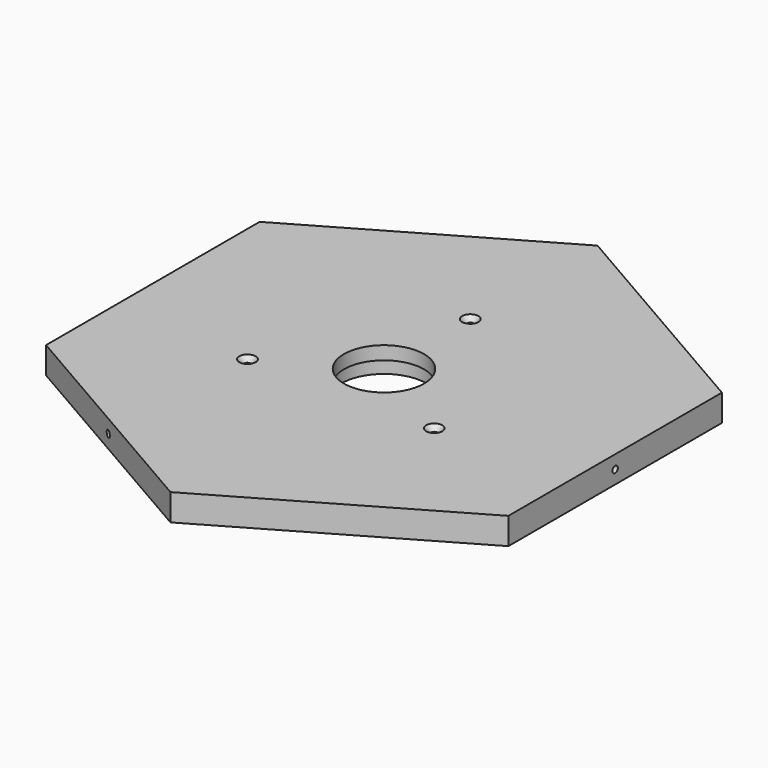
from build123d import *

# Parameters (mm, degrees)
PAD041_DEPTH        = 10
SKETCH094_R         = 15.975
POCKET017_DEPTH     = 5
SKETCH093_R         = 15
POCKET018_DEPTH     = 5
HOLE016_D           = 2.5
HOLE016_DEPTH       = 25
HOLE016_CSINK_D     = 6.1
HOLE016_CSINK_ANGLE = 90
SKETCH096_R         = 1.25
HOLE017_DEPTH       = 14.248924
HOLE017_TIPS_R      = 1.25
SKETCH097_R         = 1.25
HOLE018_DEPTH       = 14.248924
HOLE018_TIPS_R      = 1.25
SKETCH_R            = 1.25
HOLE_DEPTH          = 14.248924
HOLE_TIPS_R         = 1.25


with BuildPart() as part:
    # Sketch092 → Pad041 (new body)
    with BuildSketch(Plane.XY):
        Polygon((86.60254, 50), (0, 100), (-86.60254, 50), (-86.60254, -50), (0, -100), (86.60254, -50), align=None)
    extrude(amount=PAD041_DEPTH)

    # Sketch094 → Pocket017 (cut)
    with BuildSketch(Plane(origin=(0, 0, 0), x_dir=(1, 0, 0), z_dir=(0, 0, -1))):
        Circle(SKETCH094_R)
    extrude(amount=-POCKET017_DEPTH, mode=Mode.SUBTRACT)

    # Sketch093 → Pocket018 (cut)
    with BuildSketch(Plane.XY.offset(10)):
        Circle(SKETCH093_R)
    extrude(amount=-POCKET018_DEPTH, mode=Mode.SUBTRACT)

    # Hole016
    with Locations(Plane.XY.offset(10)):
        with Locations((0, 40.414519), (35, -20.207259), (-35, -20.207259)):
            CounterSinkHole(HOLE016_D / 2, HOLE016_CSINK_D / 2, depth=HOLE016_DEPTH, counter_sink_angle=HOLE016_CSINK_ANGLE)

    # Sketch096 (on Face2 of Hole016) → Hole017 (cut)
    with BuildSketch(Plane.YZ.offset(86.60254)):
        with Locations((0, 5)):
            Circle(SKETCH096_R)
    extrude(amount=-HOLE017_DEPTH, mode=Mode.SUBTRACT)

    # Hole017 tips → Hole017 tip 1 section 0
    with BuildSketch(Plane.YZ.offset(72.353616), mode=Mode.PRIVATE) as hole017_tip_1_s0:
        with Locations((0, 5)):
            Circle(HOLE017_TIPS_R)
    loft([hole017_tip_1_s0.sketch, Vertex(71.60254, 0, 5)], mode=Mode.SUBTRACT)

    # Sketch097 (on Face3 of Hole017) → Hole018 (cut)
    with BuildSketch(Plane(origin=(-43.30127, 75, 0), x_dir=(-0.866025, -0.5, 0), z_dir=(-0.5, 0.866025, 0))):
        with Locations((0, 5)):
            Circle(SKETCH097_R)
    extrude(amount=-HOLE018_DEPTH, mode=Mode.SUBTRACT)

    # Hole018 tips → Hole018 tip 1 section 0
    with BuildSketch(Plane(origin=(-36.176808, 62.66007, 0), x_dir=(-0.866025, -0.5, 0), z_dir=(-0.5, 0.866025, 0)), mode=Mode.PRIVATE) as hole018_tip_1_s0:
        with Locations((0, 5)):
            Circle(HOLE018_TIPS_R)
    loft([hole018_tip_1_s0.sketch, Vertex(-35.80127, 62.009619, 5)], mode=Mode.SUBTRACT)

    # Sketch (on Face10 of Hole018) → Hole (cut)
    with BuildSketch(Plane(origin=(-43.30127, -75, 0), x_dir=(0.866025, -0.5, 0), z_dir=(-0.5, -0.866025, 0))):
        with Locations((0, 5)):
            Circle(SKETCH_R)
    extrude(amount=-HOLE_DEPTH, mode=Mode.SUBTRACT)

    # Hole tips → Hole tip 1 section 0
    with BuildSketch(Plane(origin=(-36.176808, -62.66007, 0), x_dir=(0.866025, -0.5, 0), z_dir=(-0.5, -0.866025, 0)), mode=Mode.PRIVATE) as hole_tip_1_s0:
        with Locations((0, 5)):
            Circle(HOLE_TIPS_R)
    loft([hole_tip_1_s0.sketch, Vertex(-35.80127, -62.009619, 5)], mode=Mode.SUBTRACT)


solid = part.part
